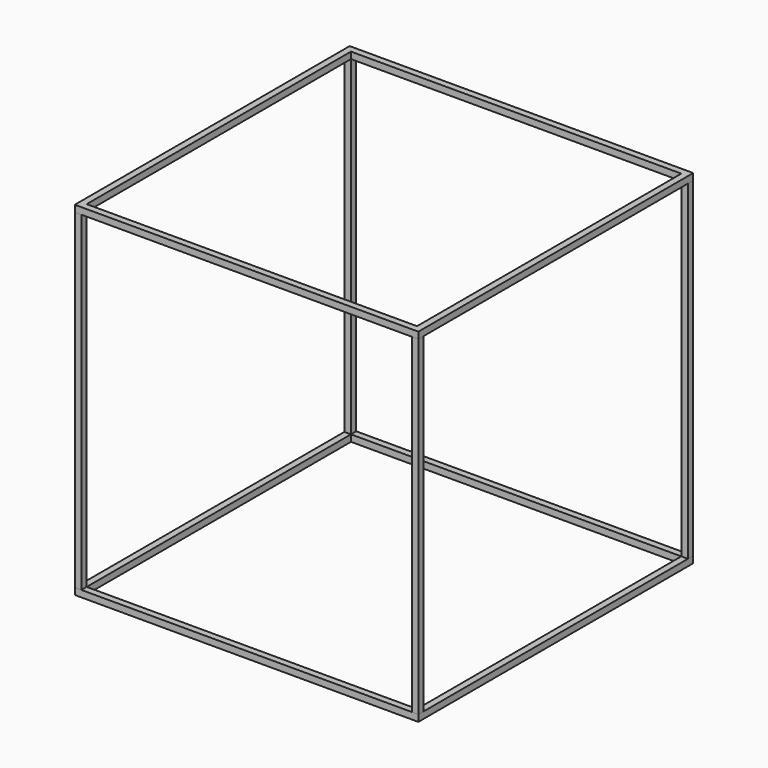
from build123d import *

# Parameters (mm, degrees)
F0_W     = 52
F0_H     = 52
F0_W_2   = 50
F0_H_2   = 50
F1_DEPTH = 1
F2_ANGLE = -90
F3_ANGLE = -90
F4_ANGLE = -90


with BuildPart() as f1:
    # F0 (on Top) → F1 (new body)
    with BuildSketch(Plane.XY):
        Rectangle(F0_W, F0_H)
        Rectangle(F0_W_2, F0_H_2, mode=Mode.SUBTRACT)
    extrude(amount=F1_DEPTH)


with BuildPart() as f2_1:
    # F2: copy of F1
    add(f1.part.rotate(Axis((-26, 0, 1), (0, 1, 0)), F2_ANGLE))


with BuildPart() as f3_1:
    # F3: copy of F2_1
    add(f2_1.part.rotate(Axis((-26, 0, 53), (0, 1, 0)), F3_ANGLE))


with BuildPart() as f4_1:
    # F4: copy of F3_1
    add(f3_1.part.rotate(Axis((26, 0, 53), (0, 1, 0)), F4_ANGLE))


with BuildPart() as f1_1:
    # F5: moved
    add(f1.part.moved(Location((0, 0, 1))))


with BuildPart() as f3_1_1:
    # F6: moved
    add(f3_1.part.moved(Location((0, 0, -1))))


solid = Compound([f2_1.part, f4_1.part, f1_1.part, f3_1_1.part])
